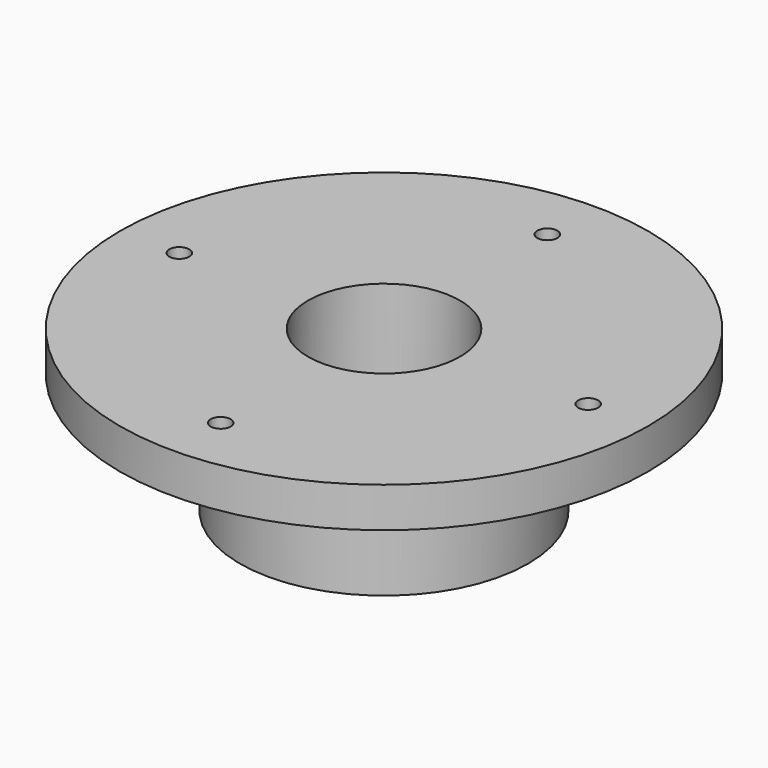
from build123d import *

# Parameters (mm, degrees)
F5_D = 5
F6_R = 3
F8_D = 5


with BuildPart() as f1:
    # F0 (on Front) → F1 (revolve)
    with BuildSketch(Plane.XZ):
        Polygon((-36.025, 0), (-26.025, 0), (-26.025, 20), (-19, 20), (-19, 40), (-66, 40), (-66, 30), (-36.025, 30), align=None)
    revolve(axis=Axis((0, 0, -7.200188), (0, 0, -1)))

    # F5 (through all)
    with Locations(Plane.XY.offset(40)):
        with Locations((0, 51.0125), (0, -51.0125)):
            Hole(F5_D / 2)

    # F6
    f6_edges = [f1.edges().sort_by_distance(p)[0] for p in [
        (26.025, 0, 0),
    ]]
    fillet(f6_edges, radius=F6_R)

    # F8 (through all)
    with Locations(Plane.XY.offset(40)):
        with Locations((51.0125, 0), (-51.153772, 0)):
            Hole(F8_D / 2)


solid = f1.part
